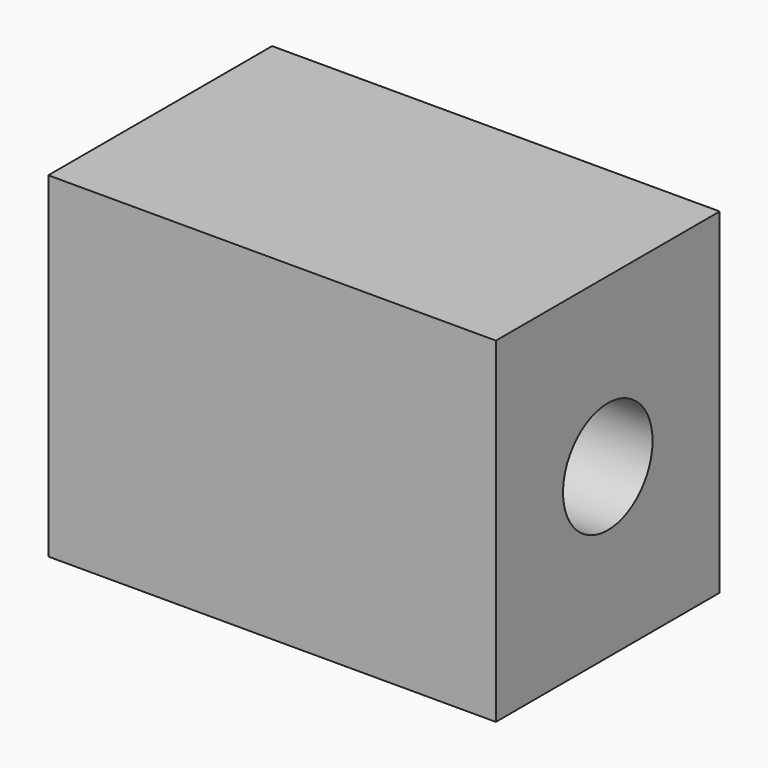
from build123d import *

# Parameters (mm, degrees)
F0_W     = 40
F0_H     = 30
F1_DEPTH = 12.5
F2_R     = 5
F3_DEPTH = 58


with BuildPart() as f1:
    # F0 (on Front) → F1 (new body, symmetric)
    with BuildSketch(Plane.XZ):
        Rectangle(F0_W, F0_H)
    extrude(amount=F1_DEPTH, both=True)

    # F2 (on face) → F3 (cut)
    with BuildSketch(Plane.YZ.offset(20)):
        Circle(F2_R)
    extrude(amount=-F3_DEPTH, mode=Mode.SUBTRACT)


solid = f1.part
